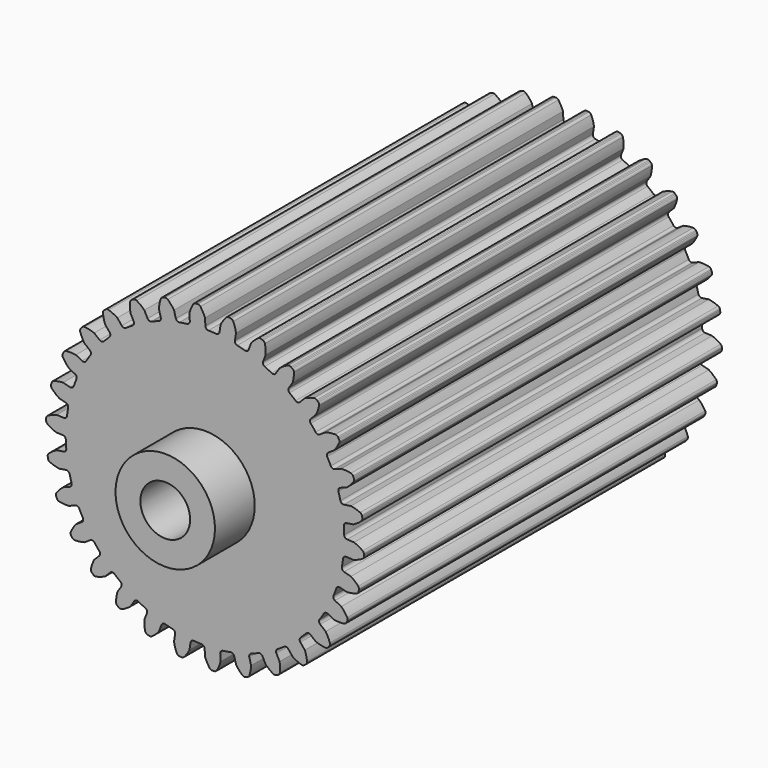
from build123d import *

# Parameters (mm, degrees)
F0_R     = 6.35
F1_DEPTH = 114.3
F2_R     = 12.7
F2_R_2   = 6.35
F3_DEPTH = 12.7


with BuildPart() as f1:
    # F0 (on Front) → F1 (new body)
    with BuildSketch(Plane.XZ):
        with BuildLine():
            ThreePointArc((-3.887965, 36.086799), (-4.069389, 35.541508), (-4.573026, 35.264728))
            ThreePointArc((-4.573026, 35.264728), (-5.56281, 35.122197), (-6.548194, 34.951892))
            ThreePointArc((-6.548194, 34.951892), (-7.112711, 35.059493), (-7.453759, 35.522033))
            Line((-7.453759, 35.522033), (-7.921435, 37.267424))
            ThreePointArc((-7.921435, 37.267424), (-8.664005, 38.26113), (-9.529419, 39.149905))
            ThreePointArc((-9.529419, 39.149905), (-9.866103, 39.329033), (-10.247472, 39.328935))
            Line((-10.247472, 39.328935), (-10.519916, 39.260859))
            Line((-10.519916, 39.260859), (-10.789896, 39.183593))
            ThreePointArc((-10.789896, 39.183593), (-11.120221, 38.992993), (-11.322234, 38.669522))
            ThreePointArc((-11.322234, 38.669522), (-11.627317, 37.467113), (-11.773547, 36.235253))
            Line((-11.773547, 36.235253), (-11.305871, 34.489862))
            ThreePointArc((-11.305871, 34.489862), (-11.369959, 33.918767), (-11.805044, 33.543323))
            ThreePointArc((-11.805044, 33.543323), (-12.743564, 33.19812), (-13.672007, 32.826663))
            ThreePointArc((-13.672007, 32.826663), (-14.246559, 32.814543), (-14.676323, 33.196067))
            Line((-14.676323, 33.196067), (-15.496666, 34.806082))
            ThreePointArc((-15.496666, 34.806082), (-16.429612, 35.623685), (-17.460901, 36.313108))
            ThreePointArc((-17.460901, 36.313108), (-17.82747, 36.418321), (-18.200486, 36.338934))
            Line((-18.200486, 36.338934), (-18.452822, 36.215702))
            Line((-18.452822, 36.215702), (-18.700838, 36.083992))
            ThreePointArc((-18.700838, 36.083992), (-18.984317, 35.828879), (-19.114661, 35.470475))
            ThreePointArc((-19.114661, 35.470475), (-19.163083, 34.230912), (-19.05, 32.995568))
            Line((-19.05, 32.995568), (-18.229657, 31.385553))
            ThreePointArc((-18.229657, 31.385553), (-18.173606, 30.813613), (-18.521125, 30.355915))
            ThreePointArc((-18.521125, 30.355915), (-19.367364, 29.823125), (-20.198288, 29.266752))
            ThreePointArc((-20.198288, 29.266752), (-20.757765, 29.135441), (-21.25746, 29.419275))
            Line((-21.25746, 29.419275), (-22.394618, 30.823547))
            ThreePointArc((-22.394618, 30.823547), (-23.477166, 31.429314), (-24.629258, 31.889254))
            ThreePointArc((-24.629258, 31.889254), (-25.009692, 31.915954), (-25.358051, 31.760748))
            Line((-25.358051, 31.760748), (-25.579251, 31.587744))
            Line((-25.579251, 31.587744), (-25.794464, 31.407347))
            ThreePointArc((-25.794464, 31.407347), (-26.018706, 31.09887), (-26.071686, 30.721199))
            ThreePointArc((-26.071686, 30.721199), (-25.861331, 29.498655), (-25.493876, 28.313818))
            Line((-25.493876, 28.313818), (-24.356718, 26.909545))
            ThreePointArc((-24.356718, 26.909545), (-24.182979, 26.361757), (-24.427743, 25.841807))
            ThreePointArc((-24.427743, 25.841807), (-25.144717, 25.144717), (-25.841807, 24.427743))
            ThreePointArc((-25.841807, 24.427743), (-26.361757, 24.182979), (-26.909545, 24.356718))
            Line((-26.909545, 24.356718), (-28.313818, 25.493876))
            ThreePointArc((-28.313818, 25.493876), (-29.498655, 25.861331), (-30.721199, 26.071686))
            ThreePointArc((-30.721199, 26.071686), (-31.09887, 26.018706), (-31.407347, 25.794464))
            Line((-31.407347, 25.794464), (-31.587744, 25.579251))
            Line((-31.587744, 25.579251), (-31.760748, 25.358051))
            ThreePointArc((-31.760748, 25.358051), (-31.915954, 25.009692), (-31.889254, 24.629258))
            ThreePointArc((-31.889254, 24.629258), (-31.429314, 23.477166), (-30.823547, 22.394618))
            Line((-30.823547, 22.394618), (-29.419275, 21.25746))
            ThreePointArc((-29.419275, 21.25746), (-29.135441, 20.757765), (-29.266752, 20.198288))
            ThreePointArc((-29.266752, 20.198288), (-29.823125, 19.367364), (-30.355915, 18.521125))
            ThreePointArc((-30.355915, 18.521125), (-30.813613, 18.173606), (-31.385553, 18.229657))
            Line((-31.385553, 18.229657), (-32.995568, 19.05))
            ThreePointArc((-32.995568, 19.05), (-34.230912, 19.163083), (-35.470475, 19.114661))
            ThreePointArc((-35.470475, 19.114661), (-35.828879, 18.984317), (-36.083992, 18.700838))
            Line((-36.083992, 18.700838), (-36.215702, 18.452822))
            Line((-36.215702, 18.452822), (-36.338934, 18.200486))
            ThreePointArc((-36.338934, 18.200486), (-36.418321, 17.82747), (-36.313108, 17.460901))
            ThreePointArc((-36.313108, 17.460901), (-35.623685, 16.429612), (-34.806082, 15.496666))
            Line((-34.806082, 15.496666), (-33.196067, 14.676323))
            ThreePointArc((-33.196067, 14.676323), (-32.814543, 14.246559), (-32.826663, 13.672007))
            ThreePointArc((-32.826663, 13.672007), (-33.19812, 12.743564), (-33.543323, 11.805044))
            ThreePointArc((-33.543323, 11.805044), (-33.918767, 11.369959), (-34.489862, 11.305871))
            Line((-34.489862, 11.305871), (-36.235253, 11.773547))
            ThreePointArc((-36.235253, 11.773547), (-37.467113, 11.627317), (-38.669522, 11.322234))
            ThreePointArc((-38.669522, 11.322234), (-38.992993, 11.120221), (-39.183593, 10.789896))
            Line((-39.183593, 10.789896), (-39.260859, 10.519916))
            Line((-39.260859, 10.519916), (-39.328935, 10.247472))
            ThreePointArc((-39.328935, 10.247472), (-39.329033, 9.866103), (-39.149905, 9.529419))
            ThreePointArc((-39.149905, 9.529419), (-38.26113, 8.664005), (-37.267424, 7.921435))
            Line((-37.267424, 7.921435), (-35.522033, 7.453759))
            ThreePointArc((-35.522033, 7.453759), (-35.059493, 7.112711), (-34.951892, 6.548194))
            ThreePointArc((-34.951892, 6.548194), (-35.122197, 5.56281), (-35.264728, 4.573026))
            ThreePointArc((-35.264728, 4.573026), (-35.541508, 4.069389), (-36.086799, 3.887965))
            Line((-36.086799, 3.887965), (-37.891284, 3.982534))
            ThreePointArc((-37.891284, 3.982534), (-39.065822, 3.583381), (-40.178525, 3.03497))
            ThreePointArc((-40.178525, 3.03497), (-40.452927, 2.770118), (-40.570683, 2.407384))
            Line((-40.570683, 2.407384), (-40.590129, 2.127239))
            Line((-40.590129, 2.127239), (-40.600073, 1.846595))
            ThreePointArc((-40.600073, 1.846595), (-40.520877, 1.473539), (-40.275663, 1.181455))
            ThreePointArc((-40.275663, 1.181455), (-39.226381, 0.519739), (-38.1, 0))
            Line((-38.1, 0), (-36.295515, -0.094569))
            ThreePointArc((-36.295515, -0.094569), (-35.772175, -0.331998), (-35.549555, -0.861807))
            ThreePointArc((-35.549555, -0.861807), (-35.511266, -1.861067), (-35.444895, -2.858854))
            ThreePointArc((-35.444895, -2.858854), (-35.610914, -3.409031), (-36.106569, -3.699863))
            Line((-36.106569, -3.699863), (-37.891284, -3.982534))
            ThreePointArc((-37.891284, -3.982534), (-38.957167, -4.617165), (-39.931533, -5.384936))
            ThreePointArc((-39.931533, -5.384936), (-40.144873, -5.701052), (-40.18464, -6.080342))
            Line((-40.18464, -6.080342), (-40.145415, -6.358409))
            Line((-40.145415, -6.358409), (-40.096793, -6.634987))
            ThreePointArc((-40.096793, -6.634987), (-39.941765, -6.983426), (-39.641182, -7.218143))
            ThreePointArc((-39.641182, -7.218143), (-38.47725, -7.647242), (-37.267424, -7.921435))
            Line((-37.267424, -7.921435), (-35.482709, -7.638764))
            ThreePointArc((-35.482709, -7.638764), (-34.921441, -7.762196), (-34.593533, -8.234143))
            ThreePointArc((-34.593533, -8.234143), (-34.348322, -9.203605), (-34.075949, -10.16579))
            ThreePointArc((-34.075949, -10.16579), (-34.123953, -10.738461), (-34.548309, -11.12599))
            Line((-34.548309, -11.12599), (-36.235253, -11.773547))
            ThreePointArc((-36.235253, -11.773547), (-37.145897, -12.615919), (-37.939342, -13.569495))
            ThreePointArc((-37.939342, -13.569495), (-38.082296, -13.923059), (-38.042335, -14.302329))
            Line((-38.042335, -14.302329), (-37.946153, -14.566164))
            Line((-37.946153, -14.566164), (-37.84109, -14.826589))
            ThreePointArc((-37.84109, -14.826589), (-37.617006, -15.135181), (-37.27419, -15.302275))
            ThreePointArc((-37.27419, -15.302275), (-36.046479, -15.480001), (-34.806082, -15.496666))
            Line((-34.806082, -15.496666), (-33.119138, -14.849109))
            ThreePointArc((-33.119138, -14.849109), (-32.544472, -14.853149), (-32.125606, -15.246607))
            ThreePointArc((-32.125606, -15.246607), (-31.684192, -16.143902), (-31.217722, -17.028431))
            ThreePointArc((-31.217722, -17.028431), (-31.145611, -17.598569), (-31.480122, -18.065858))
            Line((-31.480122, -18.065858), (-32.995568, -19.05))
            ThreePointArc((-32.995568, -19.05), (-33.711173, -20.063298), (-34.28902, -21.161002))
            ThreePointArc((-34.28902, -21.161002), (-34.35534, -21.536561), (-34.237397, -21.899235))
            Line((-34.237397, -21.899235), (-34.088463, -22.137307))
            Line((-34.088463, -22.137307), (-33.93155, -22.370197))
            ThreePointArc((-33.93155, -22.370197), (-33.648203, -22.625456), (-33.278138, -22.717623))
            ThreePointArc((-33.278138, -22.717623), (-32.040304, -22.63621), (-30.823547, -22.394618))
            Line((-30.823547, -22.394618), (-29.308102, -21.410476))
            ThreePointArc((-29.308102, -21.410476), (-28.745154, -21.294949), (-28.253637, -21.592721))
            ThreePointArc((-28.253637, -21.592721), (-27.63531, -22.378633), (-26.99513, -23.146848))
            ThreePointArc((-26.99513, -23.146848), (-26.806056, -23.689535), (-27.036103, -24.216161))
            Line((-27.036103, -24.216161), (-28.313818, -25.493876))
            ThreePointArc((-28.313818, -25.493876), (-28.803109, -26.633813), (-29.140103, -27.827671))
            ThreePointArc((-29.140103, -27.827671), (-29.12689, -28.208812), (-28.936121, -28.539039))
            Line((-28.936121, -28.539039), (-28.740944, -28.740944))
            Line((-28.740944, -28.740944), (-28.539039, -28.936121))
            ThreePointArc((-28.539039, -28.936121), (-28.208812, -29.12689), (-27.827671, -29.140103))
            ThreePointArc((-27.827671, -29.140103), (-26.633813, -28.803109), (-25.493876, -28.313818))
            Line((-25.493876, -28.313818), (-24.216161, -27.036103))
            ThreePointArc((-24.216161, -27.036103), (-23.689535, -26.806056), (-23.146848, -26.99513))
            ThreePointArc((-23.146848, -26.99513), (-22.378633, -27.63531), (-21.592721, -28.253637))
            ThreePointArc((-21.592721, -28.253637), (-21.294949, -28.745154), (-21.410476, -29.308102))
            Line((-21.410476, -29.308102), (-22.394618, -30.823547))
            ThreePointArc((-22.394618, -30.823547), (-22.63621, -32.040304), (-22.717623, -33.278138))
            ThreePointArc((-22.717623, -33.278138), (-22.625456, -33.648203), (-22.370197, -33.93155))
            Line((-22.370197, -33.93155), (-22.137307, -34.088463))
            Line((-22.137307, -34.088463), (-21.899235, -34.237397))
            ThreePointArc((-21.899235, -34.237397), (-21.536561, -34.35534), (-21.161002, -34.28902))
            ThreePointArc((-21.161002, -34.28902), (-20.063298, -33.711173), (-19.05, -32.995568))
            Line((-19.05, -32.995568), (-18.065858, -31.480122))
            ThreePointArc((-18.065858, -31.480122), (-17.598569, -31.145611), (-17.028431, -31.217722))
            ThreePointArc((-17.028431, -31.217722), (-16.143902, -31.684192), (-15.246607, -32.125606))
            ThreePointArc((-15.246607, -32.125606), (-14.853149, -32.544472), (-14.849109, -33.119138))
            Line((-14.849109, -33.119138), (-15.496666, -34.806082))
            ThreePointArc((-15.496666, -34.806082), (-15.480001, -36.046479), (-15.302275, -37.27419))
            ThreePointArc((-15.302275, -37.27419), (-15.135181, -37.617006), (-14.826589, -37.84109))
            Line((-14.826589, -37.84109), (-14.566164, -37.946153))
            Line((-14.566164, -37.946153), (-14.302329, -38.042335))
            ThreePointArc((-14.302329, -38.042335), (-13.923059, -38.082296), (-13.569495, -37.939342))
            ThreePointArc((-13.569495, -37.939342), (-12.615919, -37.145897), (-11.773547, -36.235253))
            Line((-11.773547, -36.235253), (-11.12599, -34.548309))
            ThreePointArc((-11.12599, -34.548309), (-10.738461, -34.123953), (-10.16579, -34.075949))
            ThreePointArc((-10.16579, -34.075949), (-9.203605, -34.348322), (-8.234143, -34.593533))
            ThreePointArc((-8.234143, -34.593533), (-7.762196, -34.921441), (-7.638764, -35.482709))
            Line((-7.638764, -35.482709), (-7.921435, -37.267424))
            ThreePointArc((-7.921435, -37.267424), (-7.647242, -38.47725), (-7.218143, -39.641182))
            ThreePointArc((-7.218143, -39.641182), (-6.983426, -39.941765), (-6.634987, -40.096793))
            Line((-6.634987, -40.096793), (-6.358409, -40.145415))
            Line((-6.358409, -40.145415), (-6.080342, -40.18464))
            ThreePointArc((-6.080342, -40.18464), (-5.701052, -40.144873), (-5.384936, -39.931533))
            ThreePointArc((-5.384936, -39.931533), (-4.617165, -38.957167), (-3.982534, -37.891284))
            Line((-3.982534, -37.891284), (-3.699863, -36.106569))
            ThreePointArc((-3.699863, -36.106569), (-3.409031, -35.610914), (-2.858854, -35.444895))
            ThreePointArc((-2.858854, -35.444895), (-1.861067, -35.511266), (-0.861807, -35.549555))
            ThreePointArc((-0.861807, -35.549555), (-0.331998, -35.772175), (-0.094569, -36.295515))
            Line((-0.094569, -36.295515), (0, -38.1))
            ThreePointArc((0, -38.1), (0.519739, -39.226381), (1.181455, -40.275663))
            ThreePointArc((1.181455, -40.275663), (1.473539, -40.520877), (1.846595, -40.600073))
            Line((1.846595, -40.600073), (2.127239, -40.590129))
            Line((2.127239, -40.590129), (2.407384, -40.570683))
            ThreePointArc((2.407384, -40.570683), (2.770118, -40.452927), (3.03497, -40.178525))
            ThreePointArc((3.03497, -40.178525), (3.583381, -39.065822), (3.982534, -37.891284))
            Line((3.982534, -37.891284), (3.887965, -36.086799))
            ThreePointArc((3.887965, -36.086799), (4.069389, -35.541508), (4.573026, -35.264728))
            ThreePointArc((4.573026, -35.264728), (5.56281, -35.122197), (6.548194, -34.951892))
            ThreePointArc((6.548194, -34.951892), (7.112711, -35.059493), (7.453759, -35.522033))
            Line((7.453759, -35.522033), (7.921435, -37.267424))
            ThreePointArc((7.921435, -37.267424), (8.664005, -38.26113), (9.529419, -39.149905))
            ThreePointArc((9.529419, -39.149905), (9.866103, -39.329033), (10.247472, -39.328935))
            Line((10.247472, -39.328935), (10.519916, -39.260859))
            Line((10.519916, -39.260859), (10.789896, -39.183593))
            ThreePointArc((10.789896, -39.183593), (11.120221, -38.992993), (11.322234, -38.669522))
            ThreePointArc((11.322234, -38.669522), (11.627317, -37.467113), (11.773547, -36.235253))
            Line((11.773547, -36.235253), (11.305871, -34.489862))
            ThreePointArc((11.305871, -34.489862), (11.369959, -33.918767), (11.805044, -33.543323))
            ThreePointArc((11.805044, -33.543323), (12.743564, -33.19812), (13.672007, -32.826663))
            ThreePointArc((13.672007, -32.826663), (14.246559, -32.814543), (14.676323, -33.196067))
            Line((14.676323, -33.196067), (15.496666, -34.806082))
            ThreePointArc((15.496666, -34.806082), (16.429612, -35.623685), (17.460901, -36.313108))
            ThreePointArc((17.460901, -36.313108), (17.82747, -36.418321), (18.200486, -36.338934))
            Line((18.200486, -36.338934), (18.452822, -36.215702))
            Line((18.452822, -36.215702), (18.700838, -36.083992))
            ThreePointArc((18.700838, -36.083992), (18.984317, -35.828879), (19.114661, -35.470475))
            ThreePointArc((19.114661, -35.470475), (19.163083, -34.230912), (19.05, -32.995568))
            Line((19.05, -32.995568), (18.229657, -31.385553))
            ThreePointArc((18.229657, -31.385553), (18.173606, -30.813613), (18.521125, -30.355915))
            ThreePointArc((18.521125, -30.355915), (19.367364, -29.823125), (20.198288, -29.266752))
            ThreePointArc((20.198288, -29.266752), (20.757765, -29.135441), (21.25746, -29.419275))
            Line((21.25746, -29.419275), (22.394618, -30.823547))
            ThreePointArc((22.394618, -30.823547), (23.477166, -31.429314), (24.629258, -31.889254))
            ThreePointArc((24.629258, -31.889254), (25.009692, -31.915954), (25.358051, -31.760748))
            Line((25.358051, -31.760748), (25.579251, -31.587744))
            Line((25.579251, -31.587744), (25.794464, -31.407347))
            ThreePointArc((25.794464, -31.407347), (26.018706, -31.09887), (26.071686, -30.721199))
            ThreePointArc((26.071686, -30.721199), (25.861331, -29.498655), (25.493876, -28.313818))
            Line((25.493876, -28.313818), (24.356718, -26.909545))
            ThreePointArc((24.356718, -26.909545), (24.182979, -26.361757), (24.427743, -25.841807))
            ThreePointArc((24.427743, -25.841807), (25.144717, -25.144717), (25.841807, -24.427743))
            ThreePointArc((25.841807, -24.427743), (26.361757, -24.182979), (26.909545, -24.356718))
            Line((26.909545, -24.356718), (28.313818, -25.493876))
            ThreePointArc((28.313818, -25.493876), (29.498655, -25.861331), (30.721199, -26.071686))
            ThreePointArc((30.721199, -26.071686), (31.09887, -26.018706), (31.407347, -25.794464))
            Line((31.407347, -25.794464), (31.587744, -25.579251))
            Line((31.587744, -25.579251), (31.760748, -25.358051))
            ThreePointArc((31.760748, -25.358051), (31.915954, -25.009692), (31.889254, -24.629258))
            ThreePointArc((31.889254, -24.629258), (31.429314, -23.477166), (30.823547, -22.394618))
            Line((30.823547, -22.394618), (29.419275, -21.25746))
            ThreePointArc((29.419275, -21.25746), (29.135441, -20.757765), (29.266752, -20.198288))
            ThreePointArc((29.266752, -20.198288), (29.823125, -19.367364), (30.355915, -18.521125))
            ThreePointArc((30.355915, -18.521125), (30.813613, -18.173606), (31.385553, -18.229657))
            Line((31.385553, -18.229657), (32.995568, -19.05))
            ThreePointArc((32.995568, -19.05), (34.230912, -19.163083), (35.470475, -19.114661))
            ThreePointArc((35.470475, -19.114661), (35.828879, -18.984317), (36.083992, -18.700838))
            Line((36.083992, -18.700838), (36.215702, -18.452822))
            Line((36.215702, -18.452822), (36.338934, -18.200486))
            ThreePointArc((36.338934, -18.200486), (36.418321, -17.82747), (36.313108, -17.460901))
            ThreePointArc((36.313108, -17.460901), (35.623685, -16.429612), (34.806082, -15.496666))
            Line((34.806082, -15.496666), (33.196067, -14.676323))
            ThreePointArc((33.196067, -14.676323), (32.814543, -14.246559), (32.826663, -13.672007))
            ThreePointArc((32.826663, -13.672007), (33.19812, -12.743564), (33.543323, -11.805044))
            ThreePointArc((33.543323, -11.805044), (33.918767, -11.369959), (34.489862, -11.305871))
            Line((34.489862, -11.305871), (36.235253, -11.773547))
            ThreePointArc((36.235253, -11.773547), (37.467113, -11.627317), (38.669522, -11.322234))
            ThreePointArc((38.669522, -11.322234), (38.992993, -11.120221), (39.183593, -10.789896))
            Line((39.183593, -10.789896), (39.260859, -10.519916))
            Line((39.260859, -10.519916), (39.328935, -10.247472))
            ThreePointArc((39.328935, -10.247472), (39.329033, -9.866103), (39.149905, -9.529419))
            ThreePointArc((39.149905, -9.529419), (38.26113, -8.664005), (37.267424, -7.921435))
            Line((37.267424, -7.921435), (35.522033, -7.453759))
            ThreePointArc((35.522033, -7.453759), (35.059493, -7.112711), (34.951892, -6.548194))
            ThreePointArc((34.951892, -6.548194), (35.122197, -5.56281), (35.264728, -4.573026))
            ThreePointArc((35.264728, -4.573026), (35.541508, -4.069389), (36.086799, -3.887965))
            Line((36.086799, -3.887965), (37.891284, -3.982534))
            ThreePointArc((37.891284, -3.982534), (39.065822, -3.583381), (40.178525, -3.03497))
            ThreePointArc((40.178525, -3.03497), (40.452927, -2.770118), (40.570683, -2.407384))
            Line((40.570683, -2.407384), (40.590129, -2.127239))
            Line((40.590129, -2.127239), (40.600073, -1.846595))
            ThreePointArc((40.600073, -1.846595), (40.520877, -1.473539), (40.275663, -1.181455))
            ThreePointArc((40.275663, -1.181455), (39.226381, -0.519739), (38.1, 0))
            Line((38.1, 0), (36.295515, 0.094569))
            ThreePointArc((36.295515, 0.094569), (35.772175, 0.331998), (35.549555, 0.861807))
            ThreePointArc((35.549555, 0.861807), (35.511266, 1.861067), (35.444895, 2.858854))
            ThreePointArc((35.444895, 2.858854), (35.610914, 3.409031), (36.106569, 3.699863))
            Line((36.106569, 3.699863), (37.891284, 3.982534))
            ThreePointArc((37.891284, 3.982534), (38.957167, 4.617165), (39.931533, 5.384936))
            ThreePointArc((39.931533, 5.384936), (40.144873, 5.701052), (40.18464, 6.080342))
            Line((40.18464, 6.080342), (40.145415, 6.358409))
            Line((40.145415, 6.358409), (40.096793, 6.634987))
            ThreePointArc((40.096793, 6.634987), (39.941765, 6.983426), (39.641182, 7.218143))
            ThreePointArc((39.641182, 7.218143), (38.47725, 7.647242), (37.267424, 7.921435))
            Line((37.267424, 7.921435), (35.482709, 7.638764))
            ThreePointArc((35.482709, 7.638764), (34.921441, 7.762196), (34.593533, 8.234143))
            ThreePointArc((34.593533, 8.234143), (34.348322, 9.203605), (34.075949, 10.16579))
            ThreePointArc((34.075949, 10.16579), (34.123953, 10.738461), (34.548309, 11.12599))
            Line((34.548309, 11.12599), (36.235253, 11.773547))
            ThreePointArc((36.235253, 11.773547), (37.145897, 12.615919), (37.939342, 13.569495))
            ThreePointArc((37.939342, 13.569495), (38.082296, 13.923059), (38.042335, 14.302329))
            Line((38.042335, 14.302329), (37.946153, 14.566164))
            Line((37.946153, 14.566164), (37.84109, 14.826589))
            ThreePointArc((37.84109, 14.826589), (37.617006, 15.135181), (37.27419, 15.302275))
            ThreePointArc((37.27419, 15.302275), (36.046479, 15.480001), (34.806082, 15.496666))
            Line((34.806082, 15.496666), (33.119138, 14.849109))
            ThreePointArc((33.119138, 14.849109), (32.544472, 14.853149), (32.125606, 15.246607))
            ThreePointArc((32.125606, 15.246607), (31.684192, 16.143902), (31.217722, 17.028431))
            ThreePointArc((31.217722, 17.028431), (31.145611, 17.598569), (31.480122, 18.065858))
            Line((31.480122, 18.065858), (32.995568, 19.05))
            ThreePointArc((32.995568, 19.05), (33.711173, 20.063298), (34.28902, 21.161002))
            ThreePointArc((34.28902, 21.161002), (34.35534, 21.536561), (34.237397, 21.899235))
            Line((34.237397, 21.899235), (34.088463, 22.137307))
            Line((34.088463, 22.137307), (33.93155, 22.370197))
            ThreePointArc((33.93155, 22.370197), (33.648203, 22.625456), (33.278138, 22.717623))
            ThreePointArc((33.278138, 22.717623), (32.040304, 22.63621), (30.823547, 22.394618))
            Line((30.823547, 22.394618), (29.308102, 21.410476))
            ThreePointArc((29.308102, 21.410476), (28.745154, 21.294949), (28.253637, 21.592721))
            ThreePointArc((28.253637, 21.592721), (27.63531, 22.378633), (26.99513, 23.146848))
            ThreePointArc((26.99513, 23.146848), (26.806056, 23.689535), (27.036103, 24.216161))
            Line((27.036103, 24.216161), (28.313818, 25.493876))
            ThreePointArc((28.313818, 25.493876), (28.803109, 26.633813), (29.140103, 27.827671))
            ThreePointArc((29.140103, 27.827671), (29.12689, 28.208812), (28.936121, 28.539039))
            Line((28.936121, 28.539039), (28.740944, 28.740944))
            Line((28.740944, 28.740944), (28.539039, 28.936121))
            ThreePointArc((28.539039, 28.936121), (28.208812, 29.12689), (27.827671, 29.140103))
            ThreePointArc((27.827671, 29.140103), (26.633813, 28.803109), (25.493876, 28.313818))
            Line((25.493876, 28.313818), (24.216161, 27.036103))
            ThreePointArc((24.216161, 27.036103), (23.689535, 26.806056), (23.146848, 26.99513))
            ThreePointArc((23.146848, 26.99513), (22.378633, 27.63531), (21.592721, 28.253637))
            ThreePointArc((21.592721, 28.253637), (21.294949, 28.745154), (21.410476, 29.308102))
            Line((21.410476, 29.308102), (22.394618, 30.823547))
            ThreePointArc((22.394618, 30.823547), (22.63621, 32.040304), (22.717623, 33.278138))
            ThreePointArc((22.717623, 33.278138), (22.625456, 33.648203), (22.370197, 33.93155))
            Line((22.370197, 33.93155), (22.137307, 34.088463))
            Line((22.137307, 34.088463), (21.899235, 34.237397))
            ThreePointArc((21.899235, 34.237397), (21.536561, 34.35534), (21.161002, 34.28902))
            ThreePointArc((21.161002, 34.28902), (20.063298, 33.711173), (19.05, 32.995568))
            Line((19.05, 32.995568), (18.065858, 31.480122))
            ThreePointArc((18.065858, 31.480122), (17.598569, 31.145611), (17.028431, 31.217722))
            ThreePointArc((17.028431, 31.217722), (16.143902, 31.684192), (15.246607, 32.125606))
            ThreePointArc((15.246607, 32.125606), (14.853149, 32.544472), (14.849109, 33.119138))
            Line((14.849109, 33.119138), (15.496666, 34.806082))
            ThreePointArc((15.496666, 34.806082), (15.480001, 36.046479), (15.302275, 37.27419))
            ThreePointArc((15.302275, 37.27419), (15.135181, 37.617006), (14.826589, 37.84109))
            Line((14.826589, 37.84109), (14.566164, 37.946153))
            Line((14.566164, 37.946153), (14.302329, 38.042335))
            ThreePointArc((14.302329, 38.042335), (13.923059, 38.082296), (13.569495, 37.939342))
            ThreePointArc((13.569495, 37.939342), (12.615919, 37.145897), (11.773547, 36.235253))
            Line((11.773547, 36.235253), (11.12599, 34.548309))
            ThreePointArc((11.12599, 34.548309), (10.738461, 34.123953), (10.16579, 34.075949))
            ThreePointArc((10.16579, 34.075949), (9.203605, 34.348322), (8.234143, 34.593533))
            ThreePointArc((8.234143, 34.593533), (7.762196, 34.921441), (7.638764, 35.482709))
            Line((7.638764, 35.482709), (7.921435, 37.267424))
            ThreePointArc((7.921435, 37.267424), (7.647242, 38.47725), (7.218143, 39.641182))
            ThreePointArc((7.218143, 39.641182), (6.983426, 39.941765), (6.634987, 40.096793))
            Line((6.634987, 40.096793), (6.358409, 40.145415))
            Line((6.358409, 40.145415), (6.080342, 40.18464))
            ThreePointArc((6.080342, 40.18464), (5.701052, 40.144873), (5.384936, 39.931533))
            ThreePointArc((5.384936, 39.931533), (4.617165, 38.957167), (3.982534, 37.891284))
            Line((3.982534, 37.891284), (3.699863, 36.106569))
            ThreePointArc((3.699863, 36.106569), (3.409031, 35.610914), (2.858854, 35.444895))
            ThreePointArc((2.858854, 35.444895), (1.861067, 35.511266), (0.861807, 35.549555))
            ThreePointArc((0.861807, 35.549555), (0.331998, 35.772175), (0.094569, 36.295515))
            Line((0.094569, 36.295515), (0, 38.1))
            ThreePointArc((0, 38.1), (-0.519739, 39.226381), (-1.181455, 40.275663))
            ThreePointArc((-1.181455, 40.275663), (-1.473539, 40.520877), (-1.846595, 40.600073))
            Line((-1.846595, 40.600073), (-2.127239, 40.590129))
            Line((-2.127239, 40.590129), (-2.407384, 40.570683))
            ThreePointArc((-2.407384, 40.570683), (-2.770118, 40.452927), (-3.03497, 40.178525))
            ThreePointArc((-3.03497, 40.178525), (-3.583381, 39.065822), (-3.982534, 37.891284))
            Line((-3.982534, 37.891284), (-3.887965, 36.086799))
        make_face()
        Circle(F0_R, mode=Mode.SUBTRACT)
    extrude(amount=F1_DEPTH)

    # F2 (on face) → F3 (join)
    with BuildSketch(Plane.XZ.offset(114.3)):
        Circle(F2_R)
        Circle(F2_R_2, mode=Mode.SUBTRACT)
    extrude(amount=F3_DEPTH)


solid = f1.part
